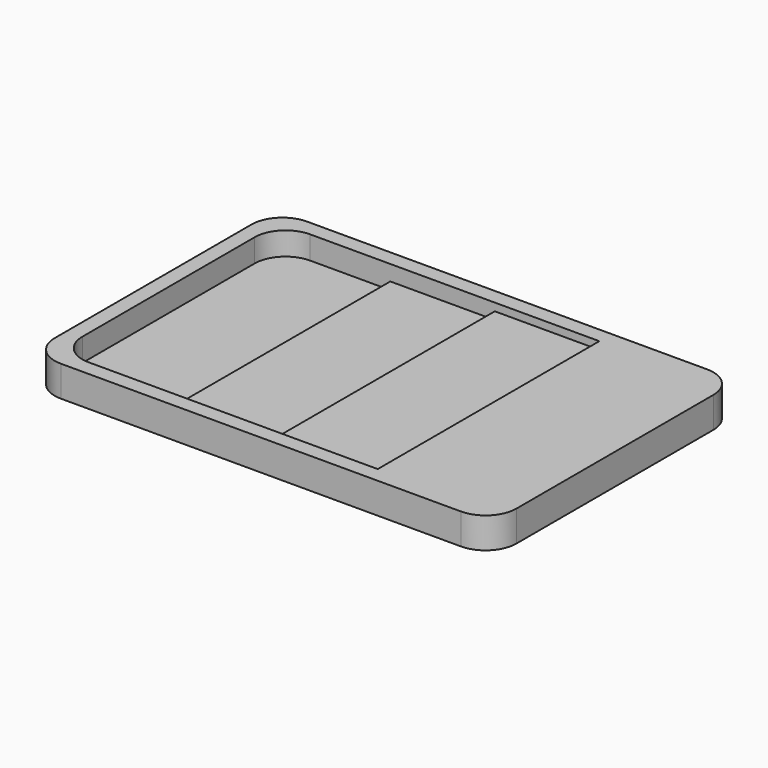
from build123d import *

# Parameters (mm, degrees)
F1_DEPTH = 2
F2_DEPTH = 0.5
F0_W     = 6.791314
F0_H     = 18
F3_DEPTH = 1.5
F4_DEPTH = 1
F5_DEPTH = 2


with BuildPart() as f1:
    # F0 (on Top) → F1 (new body)
    with BuildSketch(Plane.XY):
        with BuildLine():
            ThreePointArc((-15, -8), (-14.414214, -9.414214), (-13, -10))
            Line((-13, -10), (13, -10))
            ThreePointArc((13, -10), (14.414214, -9.414214), (15, -8))
            Line((15, -8), (15, 8))
            ThreePointArc((15, 8), (14.414214, 9.414214), (13, 10))
            Line((13, 10), (-13, 10))
            ThreePointArc((-13, 10), (-14.414214, 9.414214), (-15, 8))
            Line((-15, 8), (-15, -8))
        make_face()
        with BuildLine():
            ThreePointArc((-14, 7), (-13.414214, 8.414214), (-12, 9))
            Line((-12, 9), (-6.791314, 9))
            Line((-6.791314, 9), (0, 9))
            Line((0, 9), (6.791314, 9))
            Line((6.791314, 9), (12, 9))
            ThreePointArc((12, 9), (13.414214, 8.414214), (14, 7))
            Line((14, 7), (14, -7))
            ThreePointArc((14, -7), (13.414214, -8.414214), (12, -9))
            Line((12, -9), (6.791314, -9))
            Line((6.791314, -9), (0, -9))
            Line((0, -9), (-6.791314, -9))
            Line((-6.791314, -9), (-12, -9))
            ThreePointArc((-12, -9), (-13.414214, -8.414214), (-14, -7))
            Line((-14, -7), (-14, 7))
        make_face(mode=Mode.SUBTRACT)
    extrude(amount=F1_DEPTH)

    # F0 (on Top) → F2 (join)
    with BuildSketch(Plane.XY):
        with BuildLine():
            Line((-6.791314, 9), (-12, 9))
            ThreePointArc((-12, 9), (-13.414214, 8.414214), (-14, 7))
            Line((-14, 7), (-14, -7))
            ThreePointArc((-14, -7), (-13.414214, -8.414214), (-12, -9))
            Line((-12, -9), (-6.791314, -9))
            Line((-6.791314, -9), (-6.791314, 9))
        make_face()
    extrude(amount=F2_DEPTH)

    # F0 (on Top) → F3 (join)
    with BuildSketch(Plane.XY):
        with Locations((3.395657, 0)):
            Rectangle(F0_W, F0_H)
    extrude(amount=F3_DEPTH)

    # F0 (on Top) → F4 (join)
    with BuildSketch(Plane.XY):
        with Locations((-3.395657, 0)):
            Rectangle(F0_W, F0_H)
    extrude(amount=F4_DEPTH)

    # F0 (on Top) → F5 (join)
    with BuildSketch(Plane.XY):
        with BuildLine():
            Line((12, 9), (6.791314, 9))
            Line((6.791314, 9), (6.791314, -9))
            Line((6.791314, -9), (12, -9))
            ThreePointArc((12, -9), (13.414214, -8.414214), (14, -7))
            Line((14, -7), (14, 7))
            ThreePointArc((14, 7), (13.414214, 8.414214), (12, 9))
        make_face()
    extrude(amount=F5_DEPTH)


solid = f1.part
